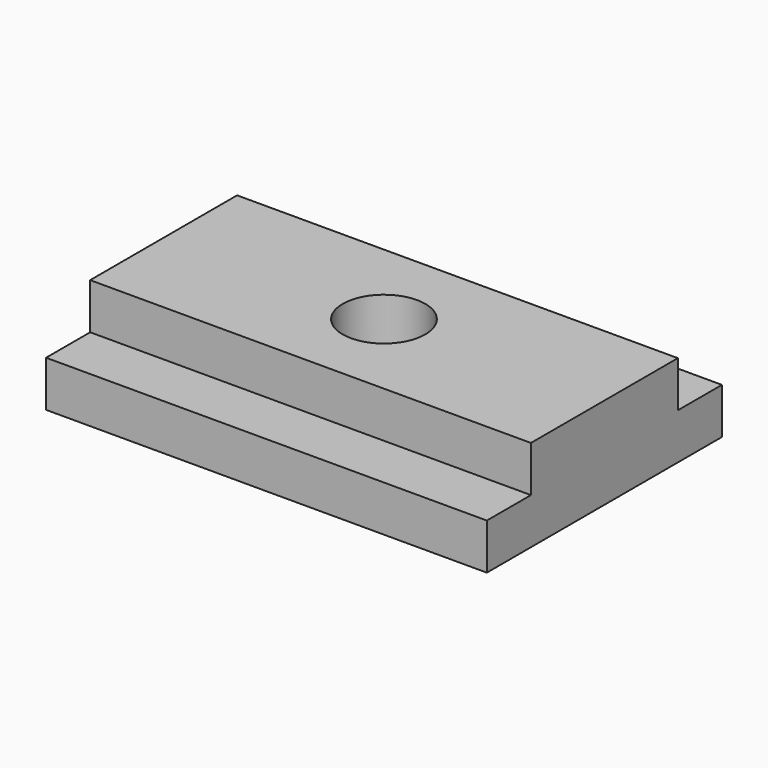
from build123d import *

# Parameters (mm, degrees)
F0_W     = 152.4
F0_H     = 101.6
F1_DEPTH = 15.875
F2_W     = 152.4
F2_H     = 63.5
F3_DEPTH = 15.875
F5_D     = 28.575


with BuildPart() as f1:
    # F0 (on Top) → F1 (new body)
    with BuildSketch(Plane.XY):
        with Locations((5.5637, 50.8)):
            Rectangle(F0_W, F0_H)
    extrude(amount=F1_DEPTH)

    # F2 (on face) → F3 (join)
    with BuildSketch(Plane.XY.offset(15.875)):
        with Locations((5.5637, 50.8)):
            Rectangle(F2_W, F2_H)
    extrude(amount=F3_DEPTH)

    # F5 (through all)
    with Locations(Plane.XY.offset(31.75)):
        with Locations((5.5637, 50.8)):
            Hole(F5_D / 2)


solid = f1.part
